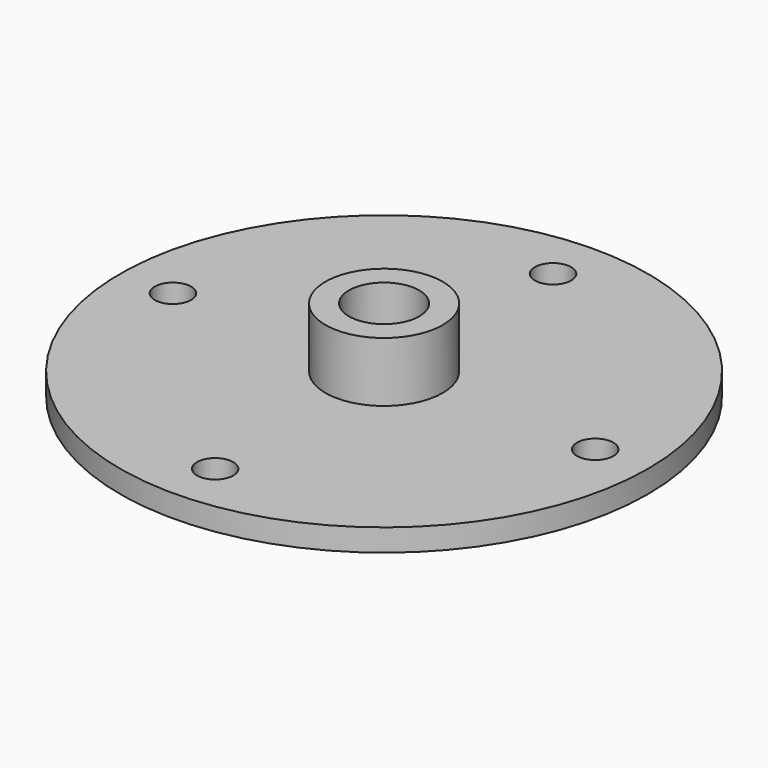
from build123d import *

# Parameters (mm, degrees)
F0_R     = 22.5
F0_R_2   = 1.55
F0_R_3   = 5
F1_DEPTH = 1.9
F0_R_4   = 3
F2_DEPTH = 7
F3_START = 0.9
F0_R_5   = 1.3
F3_DEPTH = 1


with BuildPart() as f1:
    # F0 (on Top) → F1 (new body)
    with BuildSketch(Plane.XY):
        Circle(F0_R)
        with Locations((0, -18)):
            Circle(F0_R_2, mode=Mode.SUBTRACT)
        with Locations((-18, 0)):
            Circle(F0_R_2, mode=Mode.SUBTRACT)
        Circle(F0_R_3, mode=Mode.SUBTRACT)
        with Locations((18, 0)):
            Circle(F0_R_2, mode=Mode.SUBTRACT)
        with Locations((0, 18)):
            Circle(F0_R_2, mode=Mode.SUBTRACT)
    extrude(amount=F1_DEPTH)

    # F0 (on Top) → F2 (join)
    with BuildSketch(Plane.XY):
        Circle(F0_R_3)
        Circle(F0_R_4, mode=Mode.SUBTRACT)
    extrude(amount=F2_DEPTH)

    # F0 (on Top) → F3 (join)
    with BuildSketch(Plane.XY.offset(F3_START)):
        Circle(F0_R_4)
        Circle(F0_R_5, mode=Mode.SUBTRACT)
    extrude(amount=F3_DEPTH)


solid = f1.part
